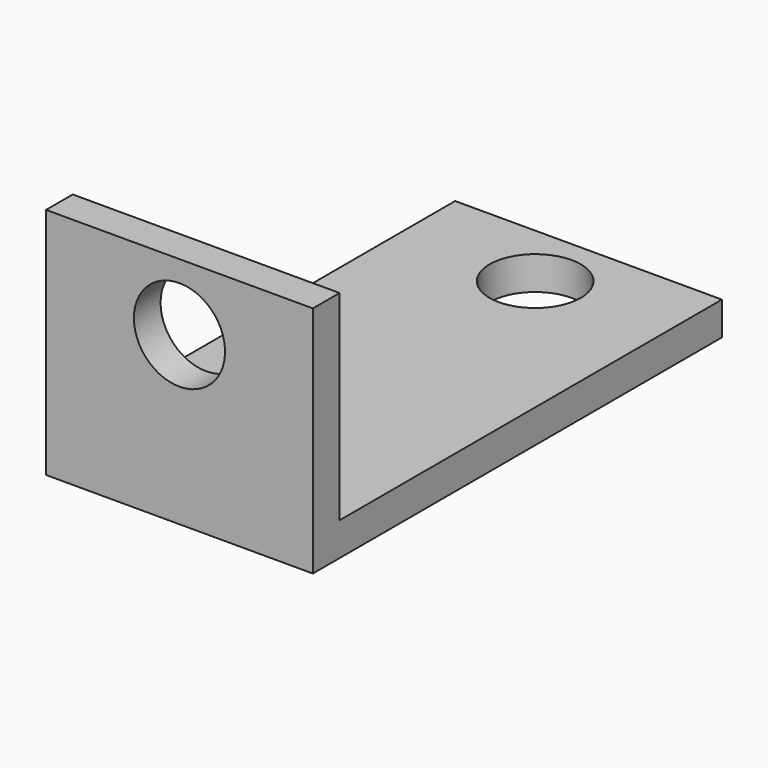
from build123d import *

# Parameters (mm, degrees)
F0_W     = 12
F0_H     = 23
F1_DEPTH = 1.5
F2_R     = 2.05
F3_DEPTH = 25
F4_W     = 12
F4_H     = 1.5
F5_DEPTH = 9
F6_R     = 2.05
F7_DEPTH = 25


with BuildPart() as f1:
    # F0 (on Top) → F1 (new body)
    with BuildSketch(Plane.XY):
        with Locations((-17.322744, 12.958014)):
            Rectangle(F0_W, F0_H)
    extrude(amount=F1_DEPTH)

    # F2 (on face) → F3 (cut)
    with BuildSketch(Plane.XY.offset(1.5)):
        with Locations((-17.322744, 21.458014)):
            Circle(F2_R)
    extrude(amount=-F3_DEPTH, mode=Mode.SUBTRACT)

    # F4 (on face) → F5 (join)
    with BuildSketch(Plane.XY.offset(1.5)):
        with Locations((-17.322744, 2.208014)):
            Rectangle(F4_W, F4_H)
    extrude(amount=F5_DEPTH)

    # F6 (on face) → F7 (cut)
    with BuildSketch(Plane(origin=(0, 2.958014, 0), x_dir=(-1, 0, 0), z_dir=(0, 1, 0))):
        with Locations((17.322744, 7.5)):
            Circle(F6_R)
    extrude(amount=-F7_DEPTH, mode=Mode.SUBTRACT)


solid = f1.part
